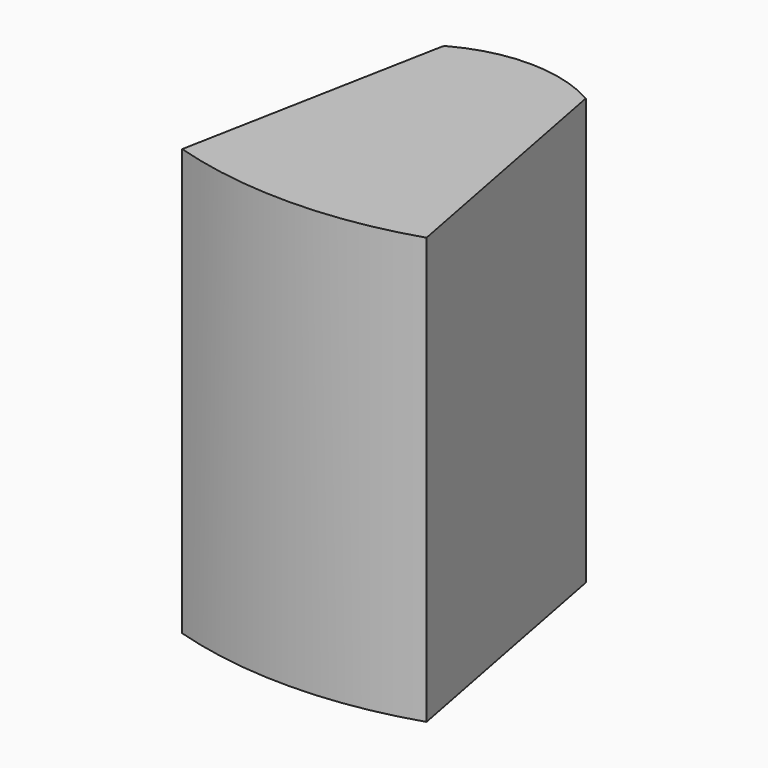
from build123d import *

# Parameters (mm, degrees)
F1_DEPTH = 12


with BuildPart() as f1:
    # F0 (on Top) → F1 (new body)
    with BuildSketch(Plane.XY):
        with BuildLine():
            Line((3.806071, -4.773571), (2.396965, 2.592868))
            ThreePointArc((2.396965, 2.592868), (0.428049, 3.116667), (-1.548621, 2.622933))
            ThreePointArc((-1.548621, 2.622933), (-1.591708, 2.585272), (-1.614527, 2.532792))
            Line((-1.614527, 2.532792), (-3.023633, -4.833647))
            ThreePointArc((-3.023633, -4.833647), (0.395847, -5.329779), (3.806071, -4.773571))
        make_face()
    extrude(amount=F1_DEPTH)


solid = f1.part
